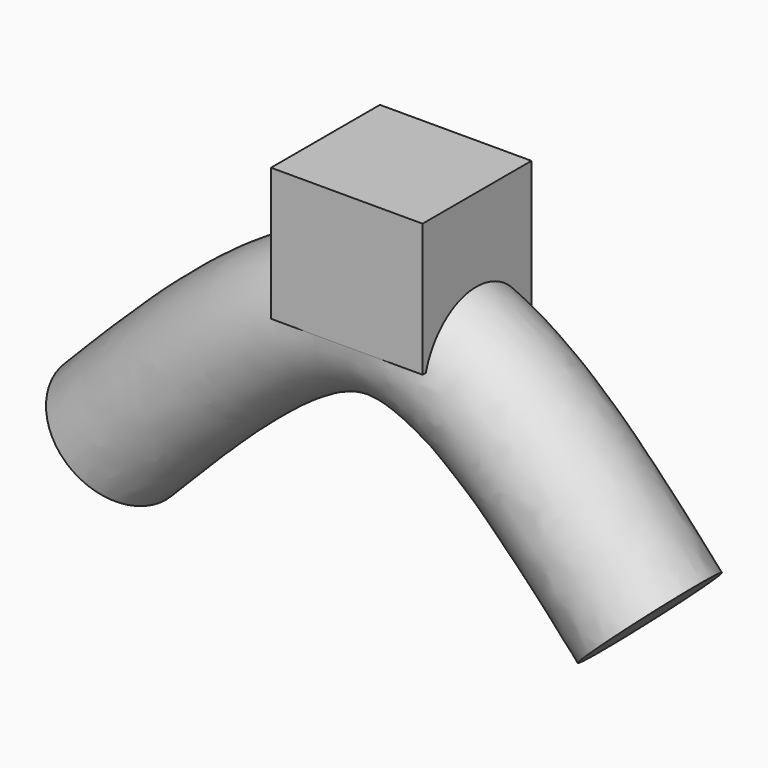
from build123d import *

# Parameters (mm, degrees)
F0_R     = 12.5
F3_W     = 28.4879058599
F3_H     = 25.5846790969
F4_DEPTH = 25


with BuildPart() as f2:
    # F2: sweep along a path in F1
    with BuildLine(Plane.XZ) as f2_path:
        add(Plane.XZ * Edge.make_bspline(
            [(-52.7663948565, -36.1680299247), (-34.8857263736, -17.9429488086), (0.1127210252, 17.7296292828), (31.7565659621, -17.5018500525), (47.2336051435, -34.7336051435)],
            knots=[0, 0, 0, 0, 0.5108989059, 1, 1, 1, 1], degree=3))
    # F0 (on Right) → F2 (sweep)
    with BuildSketch(Plane.YZ):
        Circle(F0_R)
    sweep(path=f2_path.line)

    # F3 (on Top) → F4 (join)
    with BuildSketch(Plane.XY):
        with Locations((0.3629028797, 0.1814505085)):
            Rectangle(F3_W, F3_H)
    extrude(amount=F4_DEPTH)


solid = f2.part
